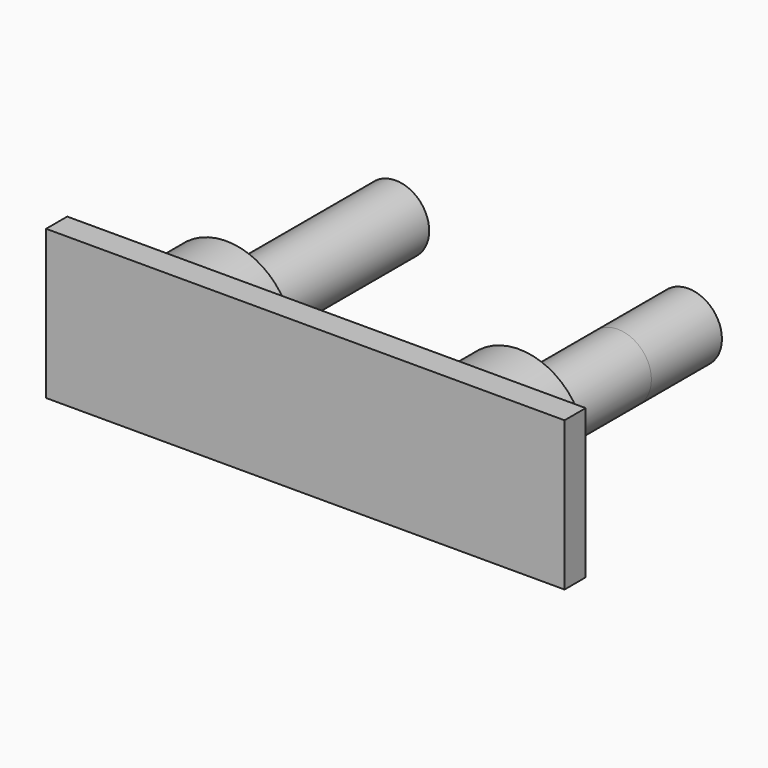
from build123d import *

# Parameters (mm, degrees)
F0_W     = 29.399694
F0_H     = 8.449018
F0_R     = 3.75
F0_R_2   = 1.9
F1_DEPTH = 11.78
F2_DEPTH = 10.28
F3_DEPTH = 7
F4_DEPTH = 5


with BuildPart() as f1:
    # F0 (on Front) → F1 (new body)
    with BuildSketch(Plane.XZ):
        Rectangle(F0_W, F0_H)
        with Locations((-8.3, 0)):
            Circle(F0_R, mode=Mode.SUBTRACT)
        with Locations((8.3, 0)):
            Circle(F0_R, mode=Mode.SUBTRACT)
        with Locations((-8.3, 0)):
            Circle(F0_R)
        with Locations((-8.3, 0)):
            Circle(F0_R_2, mode=Mode.SUBTRACT)
        with Locations((-8.3, 0)):
            Circle(F0_R_2)
        with Locations((8.3, 0)):
            Circle(F0_R)
        with Locations((8.3, 0)):
            Circle(F0_R_2, mode=Mode.SUBTRACT)
        with Locations((8.3, 0)):
            Circle(F0_R_2)
    extrude(amount=F1_DEPTH)

    # F0 (on Front) → F2 (cut)
    with BuildSketch(Plane.XZ):
        Rectangle(F0_W, F0_H)
        with Locations((-8.3, 0)):
            Circle(F0_R, mode=Mode.SUBTRACT)
        with Locations((8.3, 0)):
            Circle(F0_R, mode=Mode.SUBTRACT)
    extrude(amount=F2_DEPTH, mode=Mode.SUBTRACT)

    # F0 (on Front) → F3 (cut)
    with BuildSketch(Plane.XZ):
        with Locations((-8.3, 0)):
            Circle(F0_R)
        with Locations((-8.3, 0)):
            Circle(F0_R_2, mode=Mode.SUBTRACT)
        with Locations((8.3, 0)):
            Circle(F0_R)
        with Locations((8.3, 0)):
            Circle(F0_R_2, mode=Mode.SUBTRACT)
    extrude(amount=F3_DEPTH, mode=Mode.SUBTRACT)

    # F0 (on Front) → F4 (join)
    with BuildSketch(Plane.XZ):
        with Locations((-8.3, 0)):
            Circle(F0_R_2)
        with Locations((8.3, 0)):
            Circle(F0_R_2)
    extrude(amount=-F4_DEPTH)


solid = f1.part
